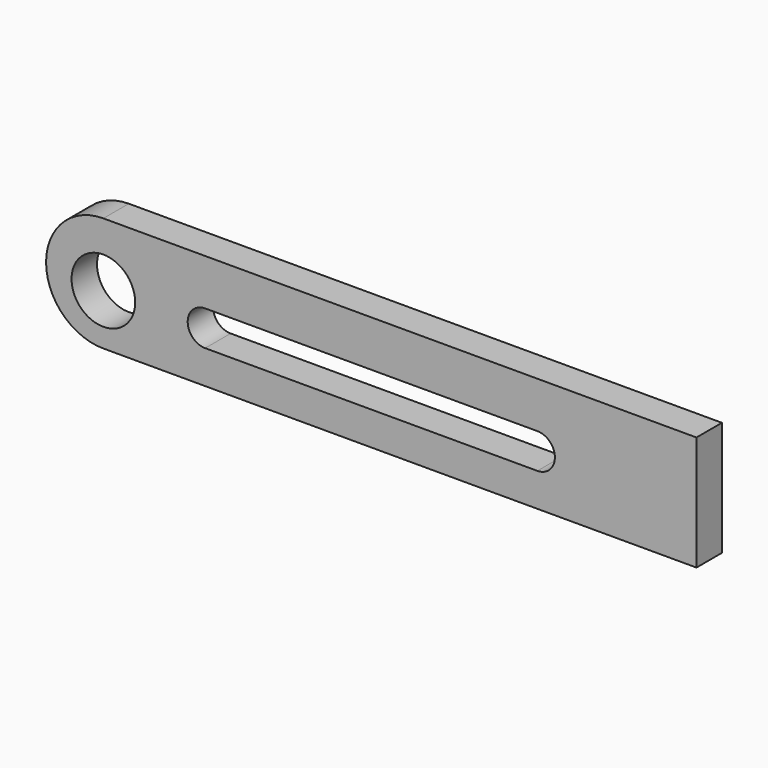
from build123d import *

# Parameters (mm, degrees)
F0_R     = 5
F1_DEPTH = 5


with BuildPart() as f1:
    # F0 (on Front) → F1 (new body)
    with BuildSketch(Plane.XZ):
        with BuildLine():
            Line((54.568551, 10), (-38.631449, 10))
            ThreePointArc((-38.631449, 10), (-47.631449, 1), (-38.631449, -8))
            Line((-38.631449, -8), (54.568551, -8))
            Line((54.568551, -8), (54.568551, 10))
        make_face()
        with Locations((-38.631449, 0)):
            Circle(F0_R, mode=Mode.SUBTRACT)
        with BuildLine():
            ThreePointArc((29.568551, 2.75), (32.318551, 0), (29.568551, -2.75))
            Line((29.568551, -2.75), (-22.631449, -2.75))
            ThreePointArc((-22.631449, -2.75), (-25.381449, 0), (-22.631449, 2.75))
            Line((-22.631449, 2.75), (29.568551, 2.75))
        make_face(mode=Mode.SUBTRACT)
    extrude(amount=F1_DEPTH)


solid = f1.part
